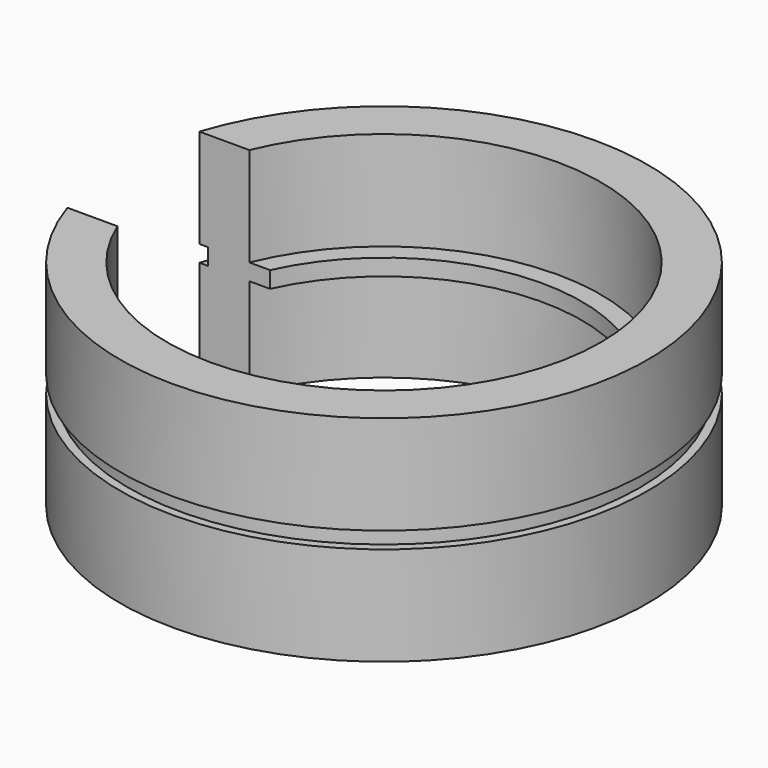
from build123d import *

# Parameters (mm, degrees)
SKETCH_R        = 16
PAD_DEPTH       = 6
SKETCH001_R     = 15.5
PAD001_DEPTH    = 1
SKETCH002_R     = 16
PAD002_DEPTH    = 6
SKETCH003_R     = 13.15
POCKET_DEPTH    = 6
SKETCH004_R     = 13.15
POCKET001_DEPTH = 6
SKETCH005_R     = 12
POCKET002_DEPTH = 1
SKETCH006_W     = 6
SKETCH006_H     = 10
POCKET003_DEPTH = 13


with BuildPart() as part:
    # Sketch → Pad (new body)
    with BuildSketch(Plane.XY):
        Circle(SKETCH_R)
    extrude(amount=PAD_DEPTH)

    # Sketch001 (on Face3 of Pad) → Pad001 (join)
    with BuildSketch(Plane.XY.offset(6)):
        Circle(SKETCH001_R)
    extrude(amount=PAD001_DEPTH)

    # Sketch002 (on Face5 of Pad001) → Pad002 (join)
    with BuildSketch(Plane.XY.offset(7)):
        Circle(SKETCH002_R)
    extrude(amount=PAD002_DEPTH)

    # Sketch003 (on Face3 of Pad002) → Pocket (cut)
    with BuildSketch(Plane.XY.offset(13)):
        Circle(SKETCH003_R)
    extrude(amount=-POCKET_DEPTH, mode=Mode.SUBTRACT)

    # Sketch004 (on Face9 of Pocket) → Pocket001 (cut)
    with BuildSketch(Plane(origin=(0, 0, 0), x_dir=(1, 0, 0), z_dir=(0, 0, -1))):
        Circle(SKETCH004_R)
    extrude(amount=-POCKET001_DEPTH, mode=Mode.SUBTRACT)

    # Sketch005 (on Face11 of Pocket001) → Pocket002 (cut)
    with BuildSketch(Plane(origin=(0, 0, 6), x_dir=(1, 0, 0), z_dir=(0, 0, -1))):
        Circle(SKETCH005_R)
    extrude(amount=-POCKET002_DEPTH, mode=Mode.SUBTRACT)

    # Sketch006 (on Face10 of Pocket002) → Pocket003 (cut)
    with BuildSketch(Plane(origin=(0, 0, 0), x_dir=(1, 0, 0), z_dir=(0, 0, -1))):
        with Locations((-13, 0)):
            Rectangle(SKETCH006_W, SKETCH006_H)
    extrude(amount=-POCKET003_DEPTH, mode=Mode.SUBTRACT)


solid = part.part
